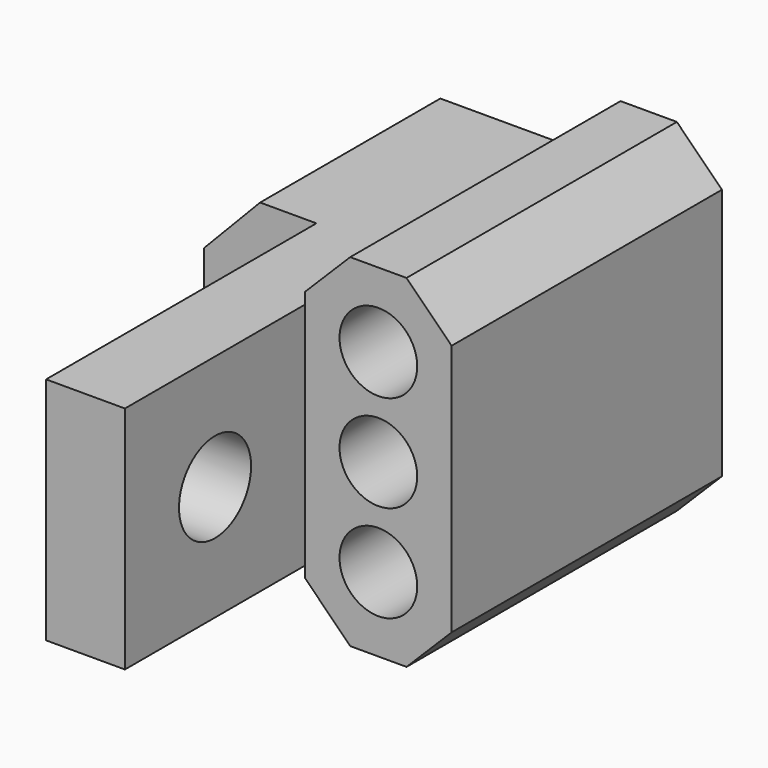
from build123d import *

# Parameters (mm, degrees)
F0_R     = 1.7
F0_R_2   = 1.725
F1_DEPTH = 15
F2_W     = 3.5
F2_H     = 10.2
F3_DEPTH = 10
F4_R     = 1.7
F5_DEPTH = 5
F6_R     = 2
F7_DEPTH = 25
F9_DEPTH = 3


with BuildPart() as f1:
    # F0 (on Front) → F1 (new body)
    with BuildSketch(Plane.XZ):
        Polygon((-3.305435, 21.095744), (-3.305435, 31.295744), (-9.305435, 31.295744), (-11.805435, 28.695744), (-11.805435, 23.695744), (-9.305435, 21.095744), align=None)
        with Locations((-9.305435, 26.195744)):
            Circle(F0_R, mode=Mode.SUBTRACT)
        Polygon((1.194565, 33.795744), (-1.305435, 33.795744), (-3.305435, 31.795744), (-3.305435, 31.295744), (-3.305435, 21.095744), (-3.305435, 20.595744), (-1.305435, 18.595744), (1.194565, 18.595744), (3.194565, 20.595744), (3.194565, 31.795744), align=None)
        with Locations((-0.055435, 21.895744)):
            Circle(F0_R_2, mode=Mode.SUBTRACT)
        with Locations((-0.055435, 26.195744)):
            Circle(F0_R_2, mode=Mode.SUBTRACT)
        with Locations((-0.055435, 30.495744)):
            Circle(F0_R_2, mode=Mode.SUBTRACT)
    extrude(amount=F1_DEPTH)

    # F2 (on face) → F3 (join)
    with BuildSketch(Plane.XZ.offset(15)):
        with Locations((-5.055435, 26.195744)):
            Rectangle(F2_W, F2_H)
    extrude(amount=F3_DEPTH)

    # F4 (on face) → F5 (cut)
    with BuildSketch(Plane.XZ.offset(15)):
        Polygon((-6.805435, 21.095744), (-6.805435, 31.295744), (-9.305435, 31.295744), (-11.805435, 28.695744), (-11.805435, 23.695744), (-9.305435, 21.095744), align=None)
        with Locations((-9.305435, 26.195744)):
            Circle(F4_R, mode=Mode.SUBTRACT)
    extrude(amount=-F5_DEPTH, mode=Mode.SUBTRACT)

    # F6 (on face) → F7 (cut)
    with BuildSketch(Plane.YZ.offset(-3.305435)):
        with Locations((-20, 26.195744)):
            Circle(F6_R)
    extrude(amount=-F7_DEPTH, mode=Mode.SUBTRACT)

    # F8 (on face) → F9 (cut)
    with BuildSketch(Plane(origin=(0, 0, 0), x_dir=(-1, 0, 0), z_dir=(0, 1, 0))):
        with BuildLine():
            Line((11.084282, 29.445744), (9.305435, 29.445744))
            ThreePointArc((9.305435, 29.445744), (6.055435, 26.195744), (9.305435, 22.945744))
            Line((9.305435, 22.945744), (11.084282, 22.945744))
            Line((11.084282, 22.945744), (11.805435, 23.695744))
            Line((11.805435, 23.695744), (11.805435, 28.695744))
            Line((11.805435, 28.695744), (11.084282, 29.445744))
        make_face()
    extrude(amount=-F9_DEPTH, mode=Mode.SUBTRACT)


solid = f1.part
